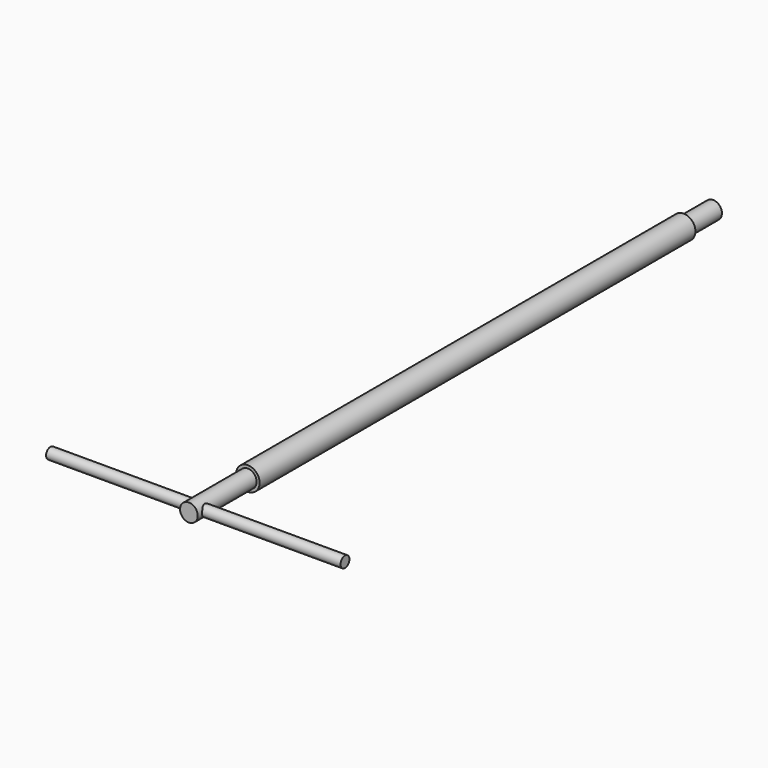
from build123d import *

# Parameters (mm, degrees)
F0_R     = 8
F0_R_2   = 6
F1_DEPTH = 185
F2_R     = 6
F4_DEPTH = 50
F3_R     = 6
F5_DEPTH = 25
F6_R     = 3.75
F7_DEPTH = 100


with BuildPart() as f1:
    # F0 (on Front) → F1 (new body, symmetric)
    with BuildSketch(Plane.XZ):
        Circle(F0_R)
        Circle(F0_R_2, mode=Mode.SUBTRACT)
        Circle(F0_R_2)
    extrude(amount=F1_DEPTH, both=True)

    # F2 (on face) → F4 (join)
    with BuildSketch(Plane.XZ.offset(185)):
        Circle(F2_R)
    extrude(amount=F4_DEPTH)

    # F3 (on face) → F5 (join)
    with BuildSketch(Plane(origin=(0, 185, 0), x_dir=(-1, 0, 0), z_dir=(0, 1, 0))):
        Circle(F3_R)
    extrude(amount=F5_DEPTH)

    # F6 (on Right) → F7 (join, symmetric)
    with BuildSketch(Plane.YZ):
        with Locations((-227.5, 0)):
            Circle(F6_R)
    extrude(amount=F7_DEPTH, both=True)


solid = f1.part
